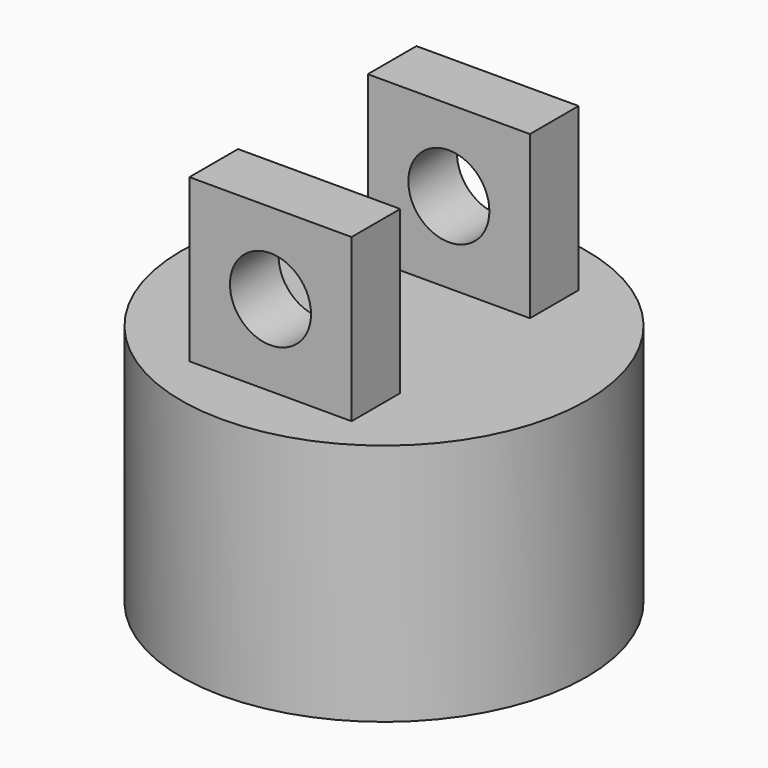
from build123d import *

# Parameters (mm, degrees)
F0_R     = 31.75
F1_DEPTH = 38.1
F2_W     = 25.4
F2_H     = 9.525
F3_DEPTH = 25.4
F4_R     = 6.35
F5_DEPTH = 44.45


with BuildPart() as f1:
    # F0 (on Top) → F1 (new body)
    with BuildSketch(Plane.XY):
        Circle(F0_R)
    extrude(amount=F1_DEPTH)

    # F2 (on face) → F3 (join)
    with BuildSketch(Plane.XY.offset(38.1)):
        with Locations((0, 17.4625)):
            Rectangle(F2_W, F2_H)
        with Locations((0, -17.4625)):
            Rectangle(F2_W, F2_H)
    extrude(amount=F3_DEPTH)

    # F4 (on face) → F5 (cut, through all)
    with BuildSketch(Plane.XZ.offset(22.225)):
        with Locations((0, 50.8)):
            Circle(F4_R)
    extrude(amount=-F5_DEPTH, mode=Mode.SUBTRACT)


solid = f1.part
